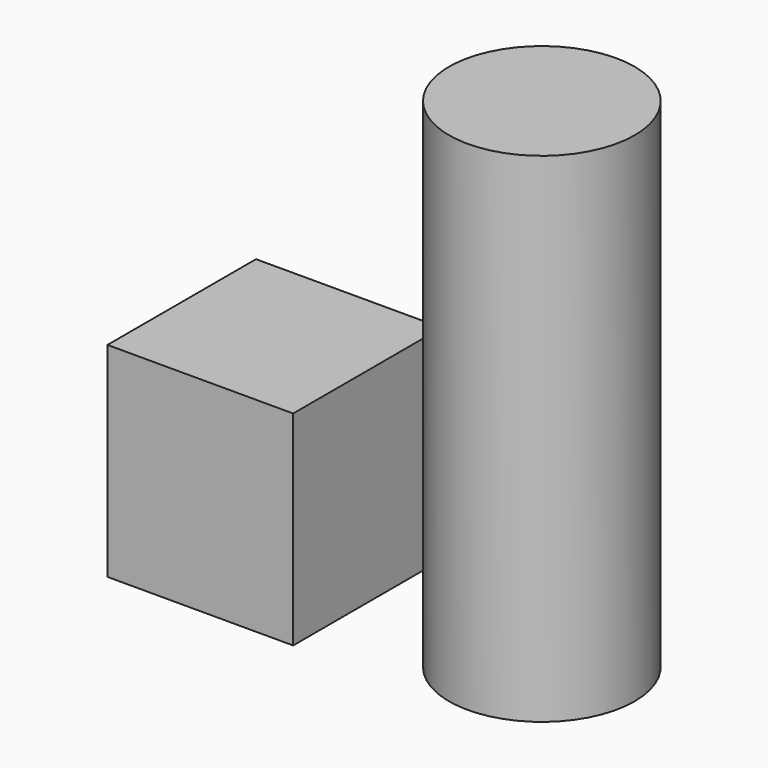
from build123d import *

# Parameters (mm, degrees)
F0_W     = 50
F0_H     = 50
F1_DEPTH = 55
F0_R     = 25
F2_DEPTH = 134.2


with BuildPart() as f1:
    # F0 (on Top) → F1 (new body)
    with BuildSketch(Plane.XY):
        Rectangle(F0_W, F0_H)
    extrude(amount=F1_DEPTH)


with BuildPart() as f2:
    # F0 (on Top) → F2 (new body)
    with BuildSketch(Plane.XY):
        with Locations((71.967877, 0)):
            Circle(F0_R)
    extrude(amount=F2_DEPTH)


solid = Compound([f1.part, f2.part])
